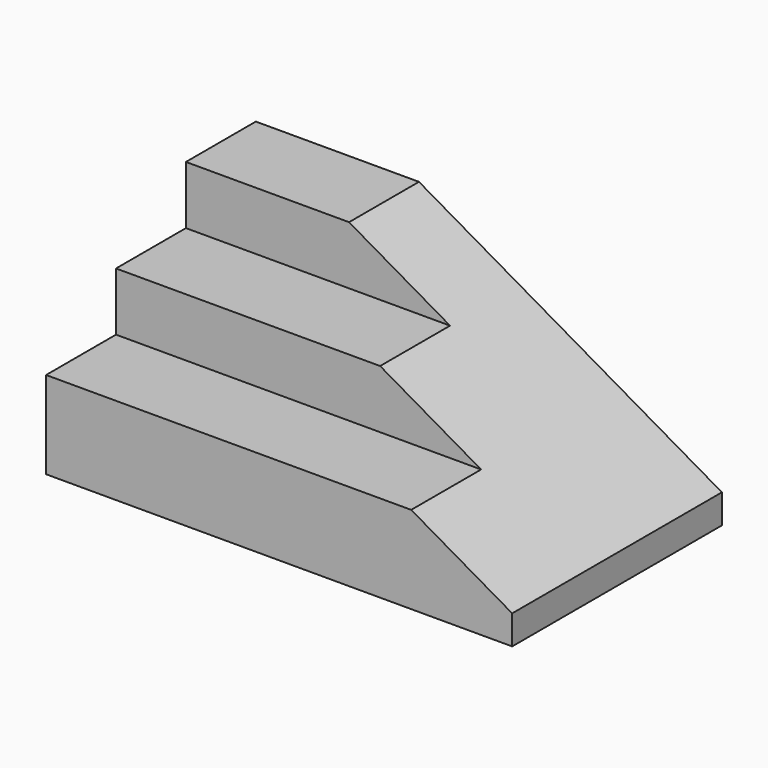
from build123d import *

# Parameters (mm, degrees)
F0_W     = 57.15
F0_H     = 6.35
F1_DEPTH = 101.6
F3_DEPTH = 57.15


with BuildPart() as f1:
    # F0 (on Right) → F1 (new body)
    with BuildSketch(Plane.YZ):
        Polygon((0, 6.35), (0, 44.45), (-19.05, 44.45), (-19.05, 31.75), (-38.1, 31.75), (-38.1, 19.05), (-57.15, 19.05), (-57.15, 6.35), align=None)
        with Locations((-28.575, 3.175)):
            Rectangle(F0_W, F0_H)
    extrude(amount=F1_DEPTH)

    # F2 (on Front) → F3 (cut)
    with BuildSketch(Plane.XZ):
        Polygon((101.6, 44.45), (35.56, 44.45), (101.6, 6.35), align=None)
    extrude(amount=F3_DEPTH, mode=Mode.SUBTRACT)


solid = f1.part
